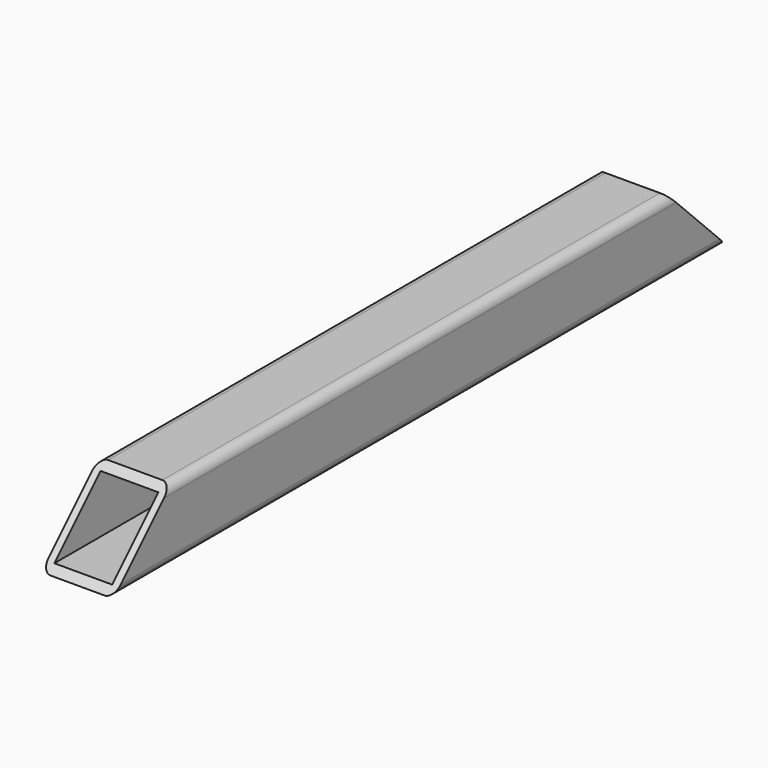
from build123d import *

# Parameters (mm, degrees)
F0_W     = 32
F0_H     = 32
F1_DEPTH = 424.264
F2_W     = 32
F2_H     = 32
F3_ANGLE = 45
F4_W     = 32
F4_H     = 32
F5_ANGLE = 45


with BuildPart() as f1:
    # F0 (on Front) → F1 (new body)
    with BuildSketch(Plane.XZ):
        with BuildLine():
            Line((-15, -20), (15, -20))
            ThreePointArc((15, -20), (18.5355339059, -18.5355339059), (20, -15))
            Line((20, -15), (20, 15))
            ThreePointArc((20, 15), (18.5355339059, 18.5355339059), (15, 20))
            Line((15, 20), (-15, 20))
            ThreePointArc((-15, 20), (-18.5355339059, 18.5355339059), (-20, 15))
            Line((-20, 15), (-20, -15))
            ThreePointArc((-20, -15), (-18.5355339059, -18.5355339059), (-15, -20))
        make_face()
        Rectangle(F0_W, F0_H, mode=Mode.SUBTRACT)
    extrude(amount=F1_DEPTH)

    # F2 (on face) → F3 (revolve, cut)
    with BuildSketch(Plane.XZ.offset(424.264)):
        with BuildLine():
            Line((-15, -20), (15, -20))
            ThreePointArc((15, -20), (18.5355339059, -18.5355339059), (20, -15))
            Line((20, -15), (20, 15))
            ThreePointArc((20, 15), (18.5355339059, 18.5355339059), (15, 20))
            Line((15, 20), (-15, 20))
            ThreePointArc((-15, 20), (-18.5355339059, 18.5355339059), (-20, 15))
            Line((-20, 15), (-20, -15))
            ThreePointArc((-20, -15), (-18.5355339059, -18.5355339059), (-15, -20))
        make_face()
        Rectangle(F2_W, F2_H, mode=Mode.SUBTRACT)
        with BuildLine():
            ThreePointArc((15, 20), (18.5355339059, 18.5355339059), (20, 15))
            Line((20, 15), (20, 20))
            Line((20, 20), (15, 20))
        make_face()
        with BuildLine():
            Line((-20, 20), (-20, 15))
            ThreePointArc((-20, 15), (-18.5355339059, 18.5355339059), (-15, 20))
            Line((-15, 20), (-20, 20))
        make_face()
        with BuildLine():
            Line((15, -20), (20, -20))
            Line((20, -20), (20, -15))
            ThreePointArc((20, -15), (18.5355339059, -18.5355339059), (15, -20))
        make_face()
        Rectangle(F2_W, F2_H)
        Polygon((15, 20), (20, 20), (20, 37), (-20, 37), (-20, 20), (-15, 20), align=None)
        with BuildLine():
            Line((-20, -20), (-15, -20))
            ThreePointArc((-15, -20), (-18.5355339059, -18.5355339059), (-20, -15))
            Line((-20, -15), (-20, -20))
        make_face()
    revolve(axis=Axis((0, -424.264, -20), (-1, 0, 0)), revolution_arc=F3_ANGLE, mode=Mode.SUBTRACT)

    # F4 (on face) → F5 (revolve, cut)
    with BuildSketch(Plane(origin=(0, 0, 0), x_dir=(-1, 0, 0), z_dir=(0, 1, 0))):
        with BuildLine():
            ThreePointArc((-20, -15), (-18.5355339059, -18.5355339059), (-15, -20))
            Line((-15, -20), (15, -20))
            ThreePointArc((15, -20), (18.5355339059, -18.5355339059), (20, -15))
            Line((20, -15), (20, 15))
            ThreePointArc((20, 15), (18.5355339059, 18.5355339059), (15, 20))
            Line((15, 20), (-15, 20))
            ThreePointArc((-15, 20), (-18.5355339059, 18.5355339059), (-20, 15))
            Line((-20, 15), (-20, -15))
        make_face()
        Rectangle(F4_W, F4_H, mode=Mode.SUBTRACT)
        Rectangle(F4_W, F4_H)
        with BuildLine():
            Line((-20, 37), (-20, 15))
            ThreePointArc((-20, 15), (-18.5355339059, 18.5355339059), (-15, 20))
            Line((-15, 20), (15, 20))
            ThreePointArc((15, 20), (18.5355339059, 18.5355339059), (20, 15))
            Line((20, 15), (20, 37))
            Line((20, 37), (-20, 37))
        make_face()
        with BuildLine():
            ThreePointArc((20, -15), (18.5355339059, -18.5355339059), (15, -20))
            Line((15, -20), (20, -20))
            Line((20, -20), (20, -15))
        make_face()
        with BuildLine():
            Line((-20, -15), (-20, -20))
            Line((-20, -20), (-15, -20))
            ThreePointArc((-15, -20), (-18.5355339059, -18.5355339059), (-20, -15))
        make_face()
    revolve(axis=Axis((0, 0, -20), (1, 0, 0)), revolution_arc=F5_ANGLE, mode=Mode.SUBTRACT)


solid = f1.part
